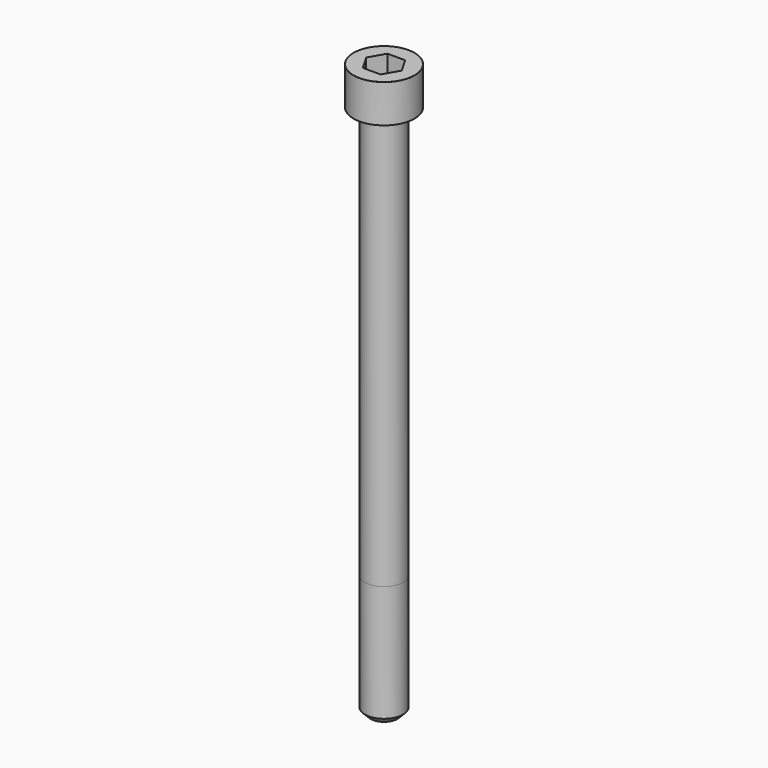
from build123d import *

# Parameters (mm, degrees)
POCKET_DEPTH = 8.07


with BuildPart() as part:
    # Sketch → Revolve (revolve)
    with BuildSketch(Plane.YZ):
        with BuildLine():
            Line((4.999, 0), (8, 0))
            Line((8, 0), (8, 9.97229))
            ThreePointArc((8, 9.97229), (7.991884, 9.991884), (7.97229, 10))
            Line((7.97229, 10), (0, 10))
            Line((0, -140), (0, 10))
            Line((3.5, -140), (0, -140))
            Line((5, -138.5), (3.5, -140))
            Line((5, -108), (5, -138.5))
            Line((4.999, 0), (5, -108))
        make_face()
    revolve(axis=Axis((0, 0, 0), (0, 0, 1)))

    # Sketch001 → Pocket (cut)
    with BuildSketch(Plane.XY.offset(10)):
        Polygon((4.659217, 0), (2.329608, 4.035), (-2.329608, 4.035), (-4.659217, 0), (-2.329608, -4.035), (2.329608, -4.035), align=None)
    extrude(amount=-POCKET_DEPTH, mode=Mode.SUBTRACT)


solid = part.part
